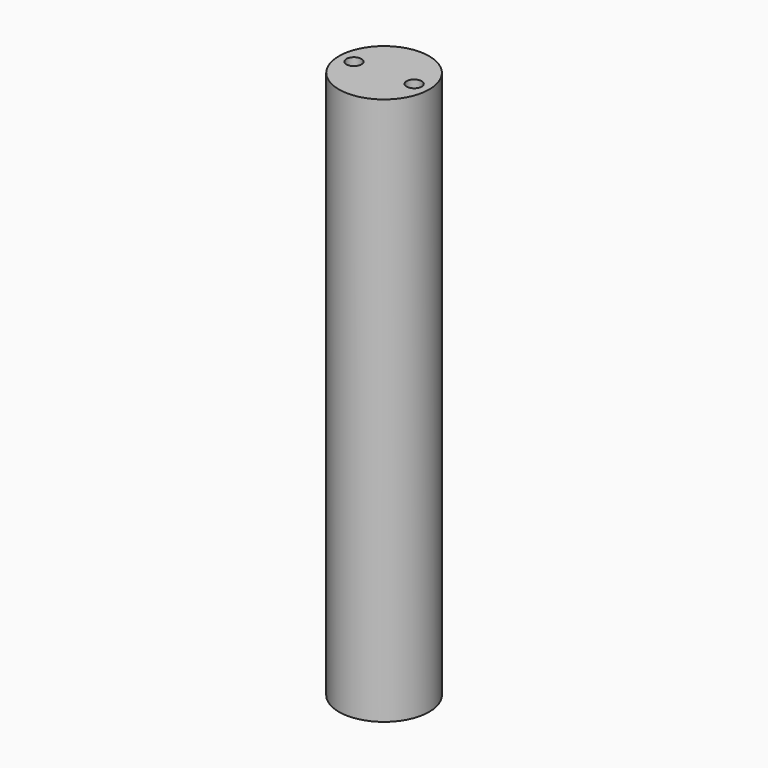
from build123d import *

# Parameters (mm, degrees)
F0_R     = 19.05
F1_DEPTH = 231.18826
F3_R     = 3.175
F4_DEPTH = 25.4


with BuildPart() as f1:
    # F0 (on Top) → F1 (new body)
    with BuildSketch(Plane.XY):
        Circle(F0_R)
    extrude(amount=F1_DEPTH)

    # F3 (on face) → F4 (cut)
    with BuildSketch(Plane.XY.offset(231.18826)):
        with Locations((-12.7, 0)):
            Circle(F3_R)
        with Locations((12.7, 0)):
            Circle(F3_R)
    extrude(amount=-F4_DEPTH, mode=Mode.SUBTRACT)


solid = f1.part
